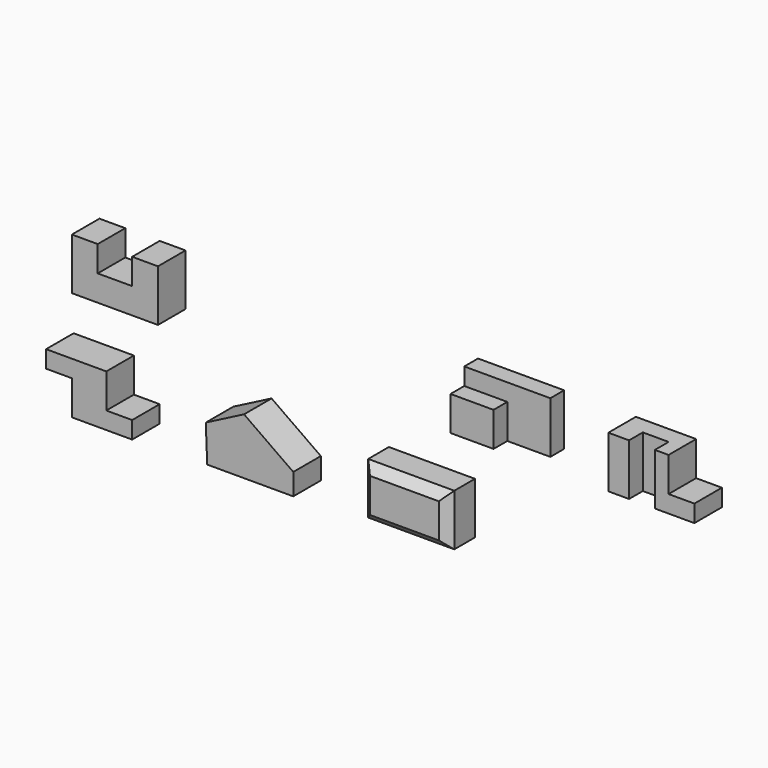
from build123d import *

# Parameters (mm, degrees)
F1_DEPTH   = 101.6
F2_W       = 254
F2_H       = 152.4
F3_DEPTH   = 101.6
F4_W       = 127
F4_H       = 76.2
F5_DEPTH   = 50.8
F5_FACE_W  = 127
F5_FACE_H  = 76.2
F6_DEPTH   = 50.8
F7_DEPTH   = 50.8
F8_DEPTH   = 50.8
F10_DEPTH  = 50.8
F10_FACE_W = 127
F10_FACE_H = 50.8
F11_DEPTH  = 25.4
F12_W      = 50.8
F12_H      = 152.4
F13_DEPTH  = 50.8
F14_DEPTH  = 101.6
F15_W      = 76.2
F15_H      = 50.8
F16_DEPTH  = 152.4
F18_DEPTH  = 101.6
F20_DEPTH  = 101.6
F21_W      = 254
F21_H      = 152.4
F22_DEPTH  = 101.6
F23_SIZE   = 25.4


with BuildPart() as f1:
    # F0 (on Front) → F1 (new body)
    with BuildSketch(Plane.XZ):
        Polygon((0, 152.4), (0, 0), (254, 0), (254, 152.4), (177.8, 152.4), (177.8, 76.2), (76.2, 76.2), (76.2, 152.4), align=None)
    extrude(amount=-F1_DEPTH)


with BuildPart() as f3:
    # F2 (on Front) → F3 (new body)
    with BuildSketch(Plane.XZ):
        with Locations((1244.426706, 76.2)):
            Rectangle(F2_W, F2_H)
    extrude(amount=-F3_DEPTH)

    # F4 (on face) → F5 (join)
    with BuildSketch(Plane.XZ):
        with Locations((1180.926706, 38.1)):
            Rectangle(F4_W, F4_H)
    extrude(amount=F5_DEPTH)

    # F5_face (on face) → F6 (join)
    with BuildSketch(Plane(origin=(1180.926706, -50.8, 38.1), x_dir=(1, 0, 0), z_dir=(0, -1, 0))):
        Rectangle(F5_FACE_W, F5_FACE_H)
    extrude(amount=-F6_DEPTH)

    # F5_face (on face) → F7 (join)
    with BuildSketch(Plane(origin=(1180.926706, -50.8, 38.1), x_dir=(1, 0, 0), z_dir=(0, -1, 0))):
        Rectangle(F5_FACE_W, F5_FACE_H)
    extrude(amount=-F7_DEPTH)

    # F5_face (on face) → F8 (cut)
    with BuildSketch(Plane(origin=(1180.926706, -50.8, 38.1), x_dir=(1, 0, 0), z_dir=(0, -1, 0))):
        Rectangle(F5_FACE_W, F5_FACE_H)
    extrude(amount=-F8_DEPTH, mode=Mode.SUBTRACT)

    # F9 (on face) → F10 (cut)
    with BuildSketch(Plane.XZ):
        Polygon((1117.426706, 152.4), (1117.426706, 76.2), (1244.426706, 76.2), (1244.426706, 0), (1371.426706, 0), (1371.426706, 152.4), align=None)
    extrude(amount=-F10_DEPTH, mode=Mode.SUBTRACT)

    # F10_face (on face) → F11 (join)
    with BuildSketch(Plane(origin=(1180.926706, 25.4, 76.2), x_dir=(1, 0, 0), z_dir=(0, 0, 1))):
        Rectangle(F10_FACE_W, F10_FACE_H)
    extrude(amount=F11_DEPTH)


with BuildPart() as f13:
    # F12 (on Front) → F13 (new body)
    with BuildSketch(Plane.XZ):
        Polygon((1760.967876, 152.4), (1633.967876, 152.4), (1633.967876, 0), (1837.167876, 0), (1837.167876, 50.8), (1760.967876, 50.8), align=None)
        with Locations((1608.567876, 76.2)):
            Rectangle(F12_W, F12_H)
    extrude(amount=-F13_DEPTH)

    # F13_face (on face) → F14 (join)
    with BuildSketch(Plane(origin=(1687.942876, 0, 69.85), x_dir=(1, 0, 0), z_dir=(0, -1, 0))):
        Polygon((73.025, 82.55), (-104.775, 82.55), (-104.775, -69.85), (149.225, -69.85), (149.225, -19.05), (73.025, -19.05), align=None)
    extrude(amount=-F14_DEPTH)

    # F15 (on face) → F16 (cut)
    with BuildSketch(Plane.XY.offset(152.4)):
        with Locations((1682.475205, 25.4)):
            Rectangle(F15_W, F15_H)
    extrude(amount=-F16_DEPTH, mode=Mode.SUBTRACT)


with BuildPart() as f18:
    # F17 (on Front) → F18 (new body)
    with BuildSketch(Plane.XZ):
        Polygon((0, -221.006861), (0, -322.606861), (177.8, -322.606861), (177.8, -271.806861), (101.6, -271.806861), (101.6, -170.206861), (-76.2, -170.206861), (-76.2, -221.006861), align=None)
    extrude(amount=-F18_DEPTH)


with BuildPart() as f20:
    # F19 (on Front) → F20 (new body)
    with BuildSketch(Plane.XZ):
        Polygon((395.12906, -207.62306), (399.361687, -315.490049), (653.361687, -315.490049), (653.361687, -251.990049), (508.058856, -149.520897), align=None)
    extrude(amount=-F20_DEPTH)


with BuildPart() as f22:
    # F21 (on Front) → F22 (new body)
    with BuildSketch(Plane.XZ):
        with Locations((981.243871, -239.345616)):
            Rectangle(F21_W, F21_H)
    extrude(amount=-F22_DEPTH)

    # F23
    f23_edges = [f22.edges().sort_by_distance(p)[0] for p in [
        (854.243871, 0, -239.345616),
        (981.243871, 0, -315.545616),
        (1108.243871, 0, -239.345616),
        (981.243871, 0, -163.145616),
    ]]
    chamfer(f23_edges, length=F23_SIZE)


solid = Compound([f1.part, f3.part, f13.part, f18.part, f20.part, f22.part])
